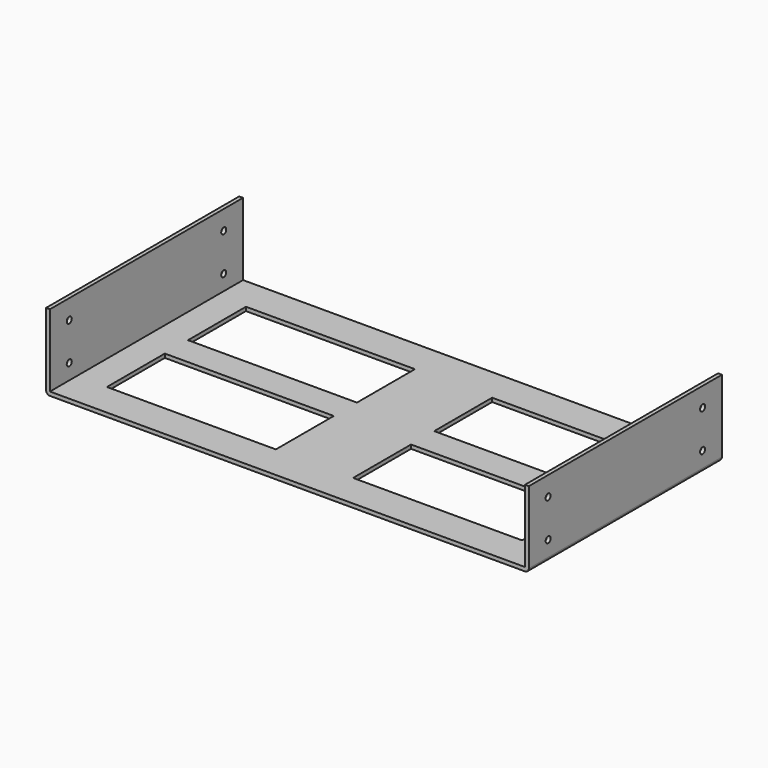
from build123d import *

# Parameters (mm, degrees)
F0_W     = 1000
F0_H     = 500
F0_W_2   = 350
F0_H_2   = 150
F1_DEPTH = 8
F2_W     = 8
F2_H     = 500
F3_DEPTH = 150
F4_R     = 8
F5_R     = 6.5
F6_DEPTH = 1200


with BuildPart() as f1:
    # F0 (on Top) → F1 (new body)
    with BuildSketch(Plane.XY):
        Rectangle(F0_W, F0_H)
        with Locations((-255, -105)):
            Rectangle(F0_W_2, F0_H_2, mode=Mode.SUBTRACT)
        with Locations((255, -105)):
            Rectangle(F0_W_2, F0_H_2, mode=Mode.SUBTRACT)
        with Locations((-255, 105)):
            Rectangle(F0_W_2, F0_H_2, mode=Mode.SUBTRACT)
        with Locations((255, 105)):
            Rectangle(F0_W_2, F0_H_2, mode=Mode.SUBTRACT)
    extrude(amount=F1_DEPTH)

    # F2 (on face) → F3 (join)
    with BuildSketch(Plane.XY.offset(8)):
        with Locations((-496, 0)):
            Rectangle(F2_W, F2_H)
        with Locations((496, 0)):
            Rectangle(F2_W, F2_H)
    extrude(amount=F3_DEPTH)

    # F4
    f4_edges = [f1.edges().sort_by_distance(p)[0] for p in [
        (-500, 0, 0),
        (500, 0, 0),
    ]]
    fillet(f4_edges, radius=F4_R)

    # F5 (on face) → F6 (cut)
    with BuildSketch(Plane(origin=(-500, 0, 0), x_dir=(0, -1, 0), z_dir=(-1, 0, 0))):
        with Locations((-200, 40)):
            Circle(F5_R)
        with Locations((-200, 118)):
            Circle(F5_R)
        with Locations((200, 118)):
            Circle(F5_R)
        with Locations((200, 40)):
            Circle(F5_R)
    extrude(amount=-F6_DEPTH, mode=Mode.SUBTRACT)


solid = f1.part
